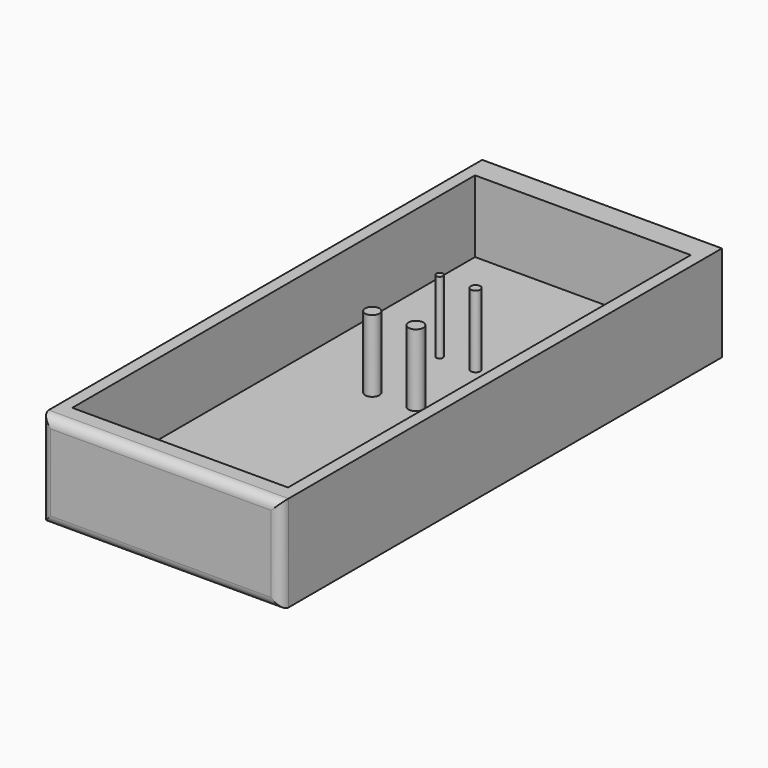
from build123d import *

# Parameters (mm, degrees)
F0_W     = 63.5
F0_H     = 146.05
F1_DEPTH = 25.4
F2_W     = 57.15
F2_H     = 133.35
F3_DEPTH = 19.05
F4_R     = 0.898026
F4_R_2   = 1.27
F4_R_3   = 1.881193
F4_R_4   = 1.948089
F5_DEPTH = 19.05
F6_R     = 2.54


with BuildPart() as f1:
    # F0 (on Top) → F1 (new body)
    with BuildSketch(Plane.XY):
        Rectangle(F0_W, F0_H)
    extrude(amount=F1_DEPTH)

    # F2 (on face) → F3 (cut)
    with BuildSketch(Plane.XY.offset(25.4)):
        Rectangle(F2_W, F2_H)
    extrude(amount=-F3_DEPTH, mode=Mode.SUBTRACT)

    # F4 (on face) → F5 (join)
    with BuildSketch(Plane.XY.offset(6.35)):
        with Locations((-6.438811, 27.302402)):
            Circle(F4_R)
        with Locations((3.009427, 27.399807)):
            Circle(F4_R_2)
        with Locations((-7.218048, 5.970811)):
            Circle(F4_R_3)
        with Locations((3.788662, 6.652642)):
            Circle(F4_R_4)
    extrude(amount=F5_DEPTH)

    # F6
    f6_edges = [f1.edges().sort_by_distance(p)[0] for p in [
        (-31.75, -73.025, 12.7),
        (31.75, -73.025, 12.7),
        (0, -73.025, 0),
        (0, -73.025, 25.4),
    ]]
    fillet(f6_edges, radius=F6_R)


solid = f1.part
